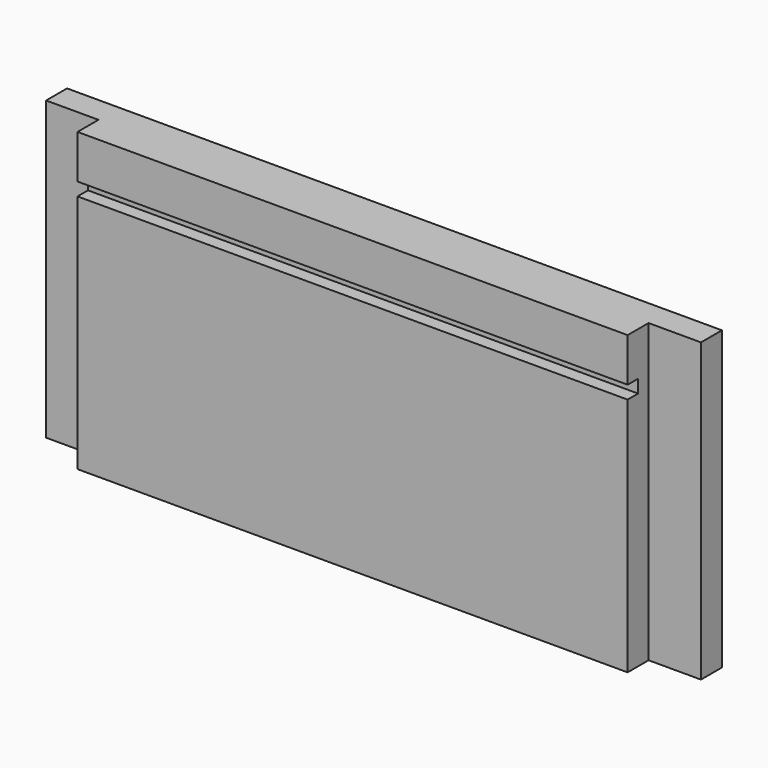
from build123d import *

# Parameters (mm, degrees)
F1_DEPTH = 150
F2_W     = 12
F2_H     = 6
F3_DEPTH = 108.3


with BuildPart() as f1:
    # F0 (on Right) → F1 (new body)
    with BuildSketch(Plane.YZ):
        Polygon((0, 55), (0, 0), (12, 0), (12, 68), (0, 68), (0, 58), (3, 58), (3, 55), align=None)
    extrude(amount=F1_DEPTH)

    # F2 (on face) → F3 (cut)
    with BuildSketch(Plane.XY.offset(68)):
        with Locations((6, 3)):
            Rectangle(F2_W, F2_H)
        with Locations((144, 3)):
            Rectangle(F2_W, F2_H)
    extrude(amount=-F3_DEPTH, mode=Mode.SUBTRACT)


solid = f1.part
